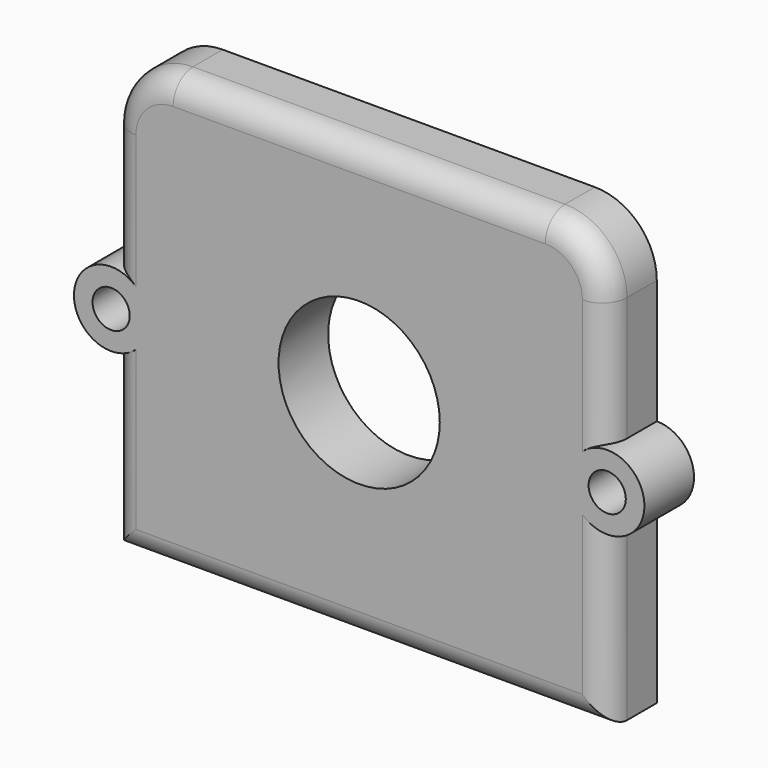
from build123d import *

# Parameters (mm, degrees)
F1_DEPTH = 5
F2_R     = 1.5
F3_DEPTH = 25
F4_R     = 6.5
F5_DEPTH = 25
F6_R     = 2


with BuildPart() as f1:
    # F0 (on Front) → F1 (new body)
    with BuildSketch(Plane.XZ):
        with BuildLine():
            Line((0, 14), (0, 0))
            Line((0, 0), (40, 0))
            Line((40, 0), (40, 14))
            ThreePointArc((40, 14), (43, 17), (40, 20))
            Line((40, 20), (40, 30))
            ThreePointArc((40, 30), (38.535534, 33.535534), (35, 35))
            Line((35, 35), (5, 35))
            ThreePointArc((5, 35), (1.464466, 33.535534), (0, 30))
            Line((0, 30), (0, 20))
            ThreePointArc((0, 20), (-3, 17), (0, 14))
        make_face()
    extrude(amount=F1_DEPTH)

    # F2 (on face) → F3 (cut)
    with BuildSketch(Plane.XZ.offset(5)):
        with Locations((0, 17)):
            Circle(F2_R)
        with Locations((40, 17)):
            Circle(F2_R)
    extrude(amount=-F3_DEPTH, mode=Mode.SUBTRACT)

    # F4 (on face) → F5 (cut)
    with BuildSketch(Plane.XZ.offset(5)):
        with Locations((20, 17.565787)):
            Circle(F4_R)
    extrude(amount=-F5_DEPTH, mode=Mode.SUBTRACT)

    # F6
    f6_edges = [f1.edges().sort_by_distance(p)[0] for p in [
        (0, -5, 25),
        (1.464466, -5, 33.535534),
        (40, -5, 7),
        (20, -5, 0),
        (0, -5, 7),
    ]]
    fillet(f6_edges, radius=F6_R)


solid = f1.part
